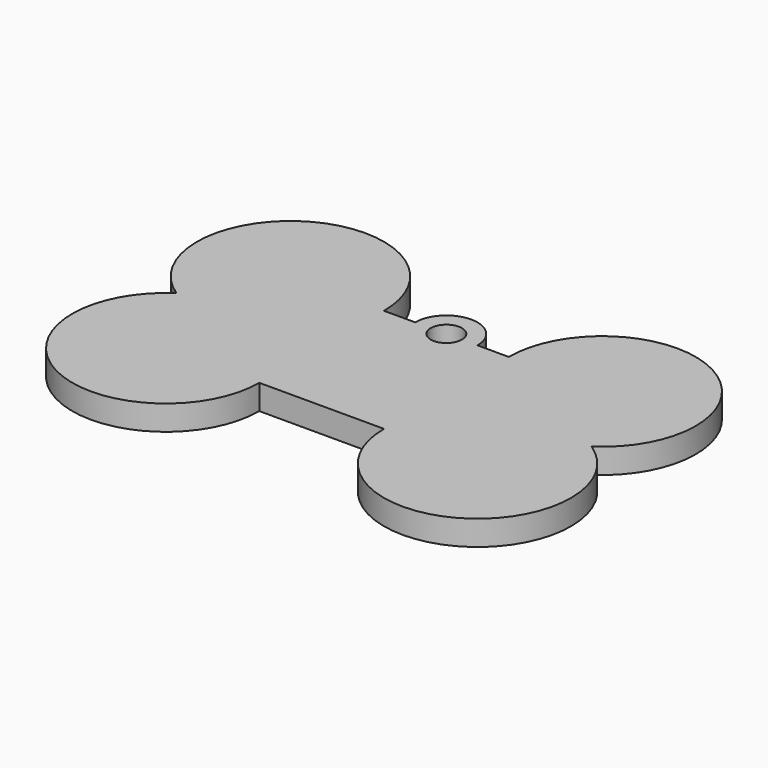
from build123d import *

# Parameters (mm, degrees)
F0_R     = 2.5
F1_DEPTH = 4


with BuildPart() as f1:
    # F0 (on Top) → F1 (new body)
    with BuildSketch(Plane.XY):
        with BuildLine():
            Line((-5, 12.5), (-10, 12.5))
            ThreePointArc((-10, 12.5), (-32.093186, 25.71691), (-33.291562, 0))
            ThreePointArc((-33.291562, 0), (-32.093186, -25.71691), (-10, -12.5))
            Line((-10, -12.5), (10, -12.5))
            ThreePointArc((10, -12.5), (32.093186, -25.71691), (33.291562, 0))
            ThreePointArc((33.291562, 0), (32.093186, 25.71691), (10, 12.5))
            Line((10, 12.5), (5, 12.5))
            ThreePointArc((5, 12.5), (0, 17.5), (-5, 12.5))
        make_face()
        with Locations((0, 12.5)):
            Circle(F0_R, mode=Mode.SUBTRACT)
    extrude(amount=F1_DEPTH)


solid = f1.part
